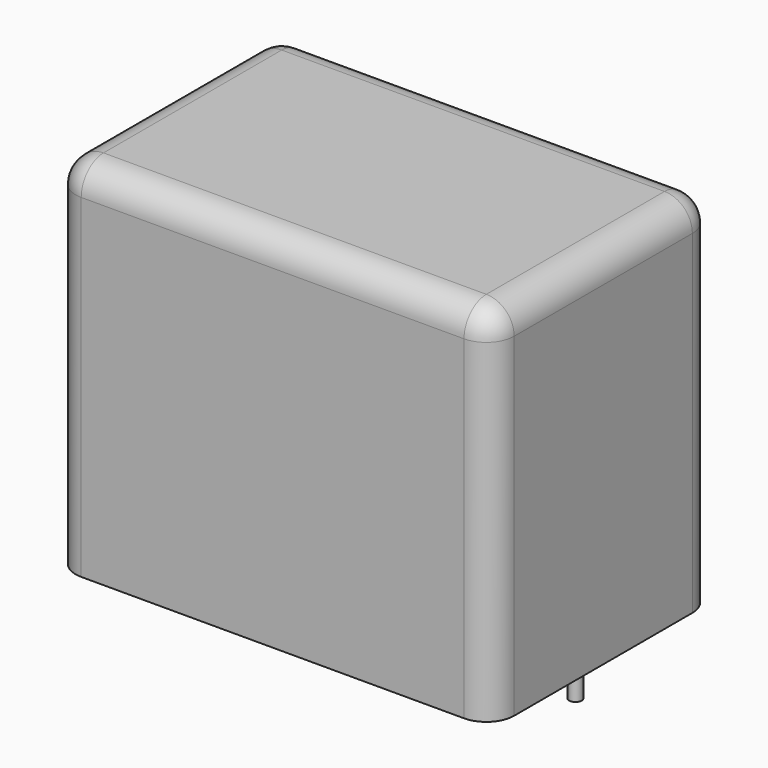
from build123d import *

# Parameters (mm, degrees)
SKETCH_W     = 31.5
SKETCH_H     = 20
PAD_DEPTH    = 26
FILLET_R     = 2
SKETCH001_R  = 0.45
PAD001_DEPTH = 3.2


with BuildPart() as fillet_body:
    # Sketch → Pad (new body)
    with BuildSketch(Plane.XY.offset(0.1)):
        with Locations((13.75, 0)):
            Rectangle(SKETCH_W, SKETCH_H)
    extrude(amount=PAD_DEPTH)

    # Fillet
    fillet_edges = [fillet_body.edges().sort_by_distance(p)[0] for p in [
        (-2, 0, 26.1),
        (-2, -10, 13.1),
        (13.75, -10, 26.1),
        (29.5, -10, 13.1),
        (29.5, 0, 26.1),
        (29.5, 10, 13.1),
        (13.75, 10, 26.1),
        (-2, 10, 13.1),
    ]]
    fillet(fillet_edges, radius=FILLET_R)


with BuildPart() as pad001:
    # Sketch001 → Pad001 (new body)
    with BuildSketch(Plane.XY.offset(0.5)):
        Circle(SKETCH001_R)
        with Locations((27.5, 0)):
            Circle(SKETCH001_R)
    extrude(amount=-PAD001_DEPTH)


solid = Compound([fillet_body.part, pad001.part])
